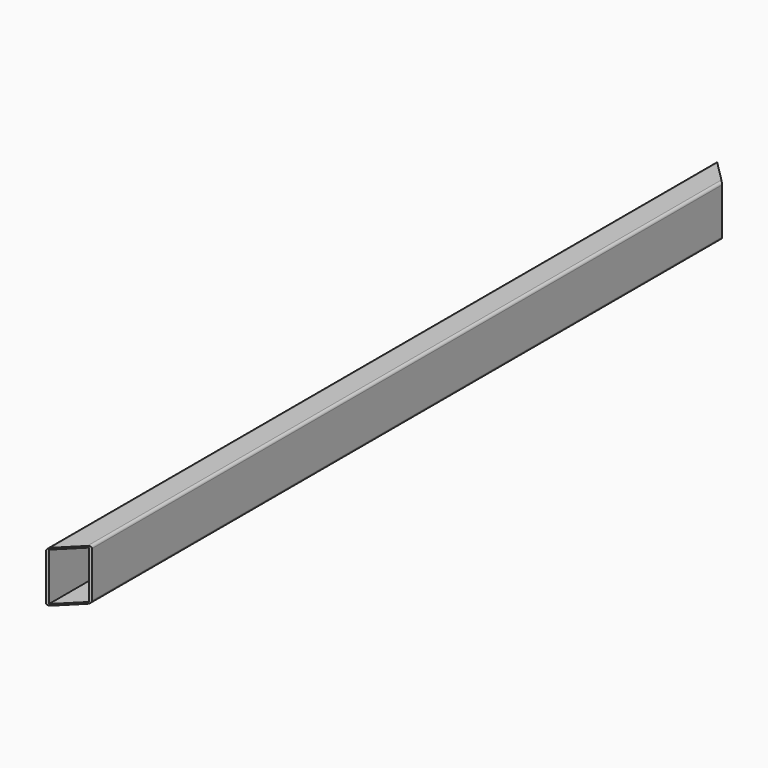
from build123d import *

# Parameters (mm, degrees)
F0_W     = 50.8
F0_H     = 101.6
F0_W_2   = 44.45
F0_H_2   = 95.25
F1_DEPTH = 1670.05
F3_DEPTH = 228.6
F4_R     = 5.08


with BuildPart() as f1:
    # F0 (on Front) → F1 (new body)
    with BuildSketch(Plane.XZ):
        with Locations((25.4, 50.8)):
            Rectangle(F0_W, F0_H)
        with Locations((25.4, 50.8)):
            Rectangle(F0_W_2, F0_H_2, mode=Mode.SUBTRACT)
    extrude(amount=F1_DEPTH)

    # F2 (on face) → F3 (cut)
    with BuildSketch(Plane.XY.offset(101.6)):
        Polygon((50.8, -1619.25), (0, -1670.05), (50.8, -1670.05), align=None)
        Polygon((50.8, 0), (0, 0), (50.8, -50.8), align=None)
    extrude(amount=-F3_DEPTH, mode=Mode.SUBTRACT)

    # F4
    f4_edges = [f1.edges().sort_by_distance(p)[0] for p in [
        (50.8, -835.025, 101.6),
        (50.8, -835.025, 0),
        (0, -835.025, 101.6),
        (0, -835.025, 0),
    ]]
    fillet(f4_edges, radius=F4_R)


solid = f1.part
